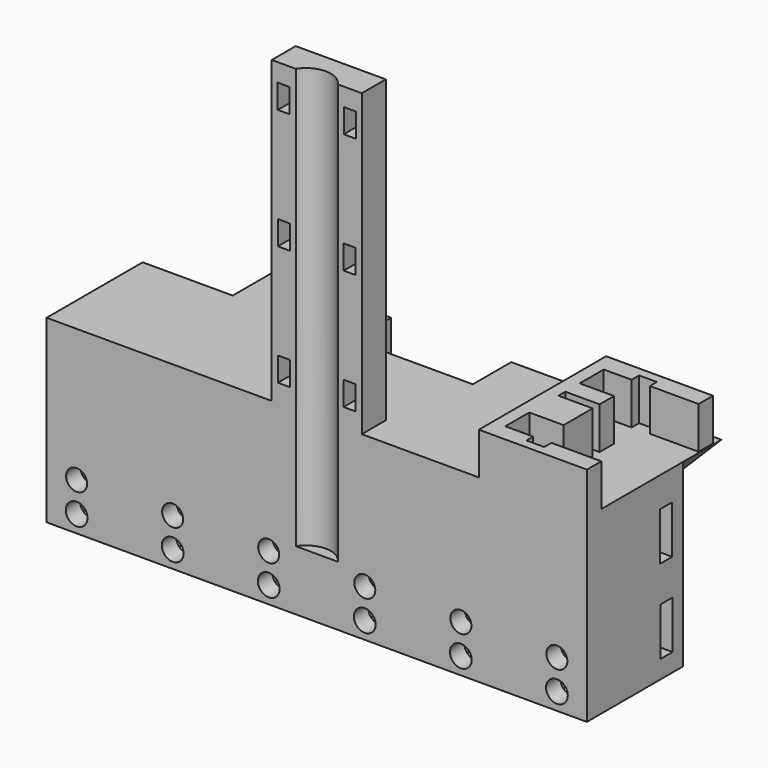
from build123d import *

# Parameters (mm, degrees)
F1_DEPTH  = 30
F3_W      = 2.5
F3_H      = 8
F5_W      = 2.5
F5_H      = 8
F8_R      = 1.811637
F8_R_2    = 1.75
F10_DEPTH = 10
F9_W      = 6.5
F9_H      = 3
F11_DEPTH = 12
F12_R     = 1.5
F13_DEPTH = 20
F14_W     = 15
F14_H     = 5
F15_DEPTH = 50
F17_DEPTH = 70
F18_W     = 2
F18_H     = 4
F19_DEPTH = 28.001
F22_DEPTH = 8
F7_R      = 1.5
F23_DEPTH = 75.001
F24_R     = 3.5
F25_DEPTH = 15
F26_DEPTH = 7


with BuildPart() as f1:
    # F0 (on Top) → F1 (new body)
    with BuildSketch(Plane.XY):
        Polygon((0, 20), (0, 0), (90, 0), (90, 20), (75, 20), (75, 28), (55, 28), (55, 20), (35, 20), (35, 28), (15, 28), (15, 20), align=None)
    extrude(amount=F1_DEPTH)

    # F4: sweep along a path in F2
    with BuildLine(Plane.XY.offset(30)) as f4_path:
        Line((0, 16.5), (35, 16.5))
        ThreePointArc((35, 16.5), (37.780873, 17.683526), (38.855914, 20.508111))
    # F3 (on face) → F4 (sweep, cut)
    with BuildSketch(Plane(origin=(0, 0, 0), x_dir=(0, -1, 0), z_dir=(-1, 0, 0))):
        with Locations((-16.5, 21)):
            Rectangle(F3_W, F3_H)
        with Locations((-16.550689, 7)):
            Rectangle(F3_W, F3_H)
    sweep(path=f4_path.line, mode=Mode.SUBTRACT)

    # F6: sweep along a path in F2
    with BuildLine(Plane.XY.offset(30)) as f6_path:
        Line((90, 16.5), (55, 16.5))
        ThreePointArc((55, 16.5), (51.896558, 17.690089), (50.384562, 20.650078))
    # F5 (on face) → F6 (sweep, cut)
    with BuildSketch(Plane.YZ.offset(90)):
        with Locations((16.5, 21)):
            Rectangle(F5_W, F5_H)
        with Locations((16.589286, 7)):
            Rectangle(F5_W, F5_H)
    sweep(path=f6_path.line, mode=Mode.SUBTRACT)

    # F8 (on face) → F10 (cut)
    with BuildSketch(Plane.XZ):
        with Locations((5, 2.839677)):
            Circle(F8_R)
        with Locations((5, 7.839677)):
            Circle(F8_R_2)
        with Locations((21, 7.839677)):
            Circle(F8_R_2)
        with Locations((21, 2.839677)):
            Circle(F8_R)
        with Locations((37, 7.839677)):
            Circle(F8_R_2)
        with Locations((37, 2.839677)):
            Circle(F8_R)
        with Locations((53, 7.839677)):
            Circle(F8_R_2)
        with Locations((53, 2.839677)):
            Circle(F8_R)
        with Locations((69, 7.839677)):
            Circle(F8_R_2)
        with Locations((69, 2.839677)):
            Circle(F8_R)
        with Locations((85, 7.839677)):
            Circle(F8_R_2)
        with Locations((85, 2.839677)):
            Circle(F8_R)
    extrude(amount=-F10_DEPTH, mode=Mode.SUBTRACT)

    # F9 (on face) → F11 (cut)
    with BuildSketch(Plane(origin=(0, 0, 0), x_dir=(1, 0, 0), z_dir=(0, 0, -1))):
        with Locations((5, -4.5)):
            Rectangle(F9_W, F9_H)
        with Locations((21, -4.5)):
            Rectangle(F9_W, F9_H)
        with Locations((37, -4.5)):
            Rectangle(F9_W, F9_H)
        with Locations((53, -4.5)):
            Rectangle(F9_W, F9_H)
        with Locations((69, -4.5)):
            Rectangle(F9_W, F9_H)
        with Locations((85, -4.5)):
            Rectangle(F9_W, F9_H)
    extrude(amount=-F11_DEPTH, mode=Mode.SUBTRACT)

    # F12 (on face) → F13 (cut)
    with BuildSketch(Plane(origin=(0, 28, 0), x_dir=(-1, 0, 0), z_dir=(0, 1, 0))):
        with Locations((-71.5, 27)):
            Circle(F12_R)
        with Locations((-58.5, 27)):
            Circle(F12_R)
        with Locations((-71.5, 14)):
            Circle(F12_R)
        with Locations((-58.5, 14)):
            Circle(F12_R)
        with Locations((-71.5, 3)):
            Circle(F12_R)
        with Locations((-58.5, 3)):
            Circle(F12_R)
        with Locations((-31.5, 3)):
            Circle(F12_R)
        with Locations((-18.5, 3)):
            Circle(F12_R)
        with Locations((-18.5, 14)):
            Circle(F12_R)
        with Locations((-31.5, 14)):
            Circle(F12_R)
        with Locations((-31.5, 27)):
            Circle(F12_R)
        with Locations((-18.5, 27)):
            Circle(F12_R)
    extrude(amount=-F13_DEPTH, mode=Mode.SUBTRACT)

    # F14 (on face) → F15 (join)
    with BuildSketch(Plane.XY.offset(30)):
        with Locations((45, 2.5)):
            Rectangle(F14_W, F14_H)
    extrude(amount=F15_DEPTH)

    # F16 (on face) → F17 (cut)
    with BuildSketch(Plane.XY.offset(80)):
        with BuildLine():
            Line((41.5, 0), (48.5, 0))
            ThreePointArc((48.5, 0), (45, 1.907092), (41.5, 0))
        make_face()
    extrude(amount=-F17_DEPTH, mode=Mode.SUBTRACT)

    # F18 (on face) → F19 (cut, through all)
    with BuildSketch(Plane.XZ):
        with Locations((39.5, 75)):
            Rectangle(F18_W, F18_H)
        with Locations((39.513543, 55.000005)):
            Rectangle(F18_W, F18_H)
        with Locations((39.527086, 35.000009)):
            Rectangle(F18_W, F18_H)
        with Locations((50.5, 75)):
            Rectangle(F18_W, F18_H)
        with Locations((50.486457, 55.000005)):
            Rectangle(F18_W, F18_H)
        with Locations((50.472914, 35.000009)):
            Rectangle(F18_W, F18_H)
    extrude(amount=-F19_DEPTH, mode=Mode.SUBTRACT)

    # F21 (on face) → F22 (join)
    with BuildSketch(Plane(origin=(0, 20, 0), x_dir=(-1, 0, 0), z_dir=(0, 1, 0))):
        Polygon((-75, 30), (-90, 30), (-75, 15), align=None)
    extrude(amount=F22_DEPTH)

    # F7 (on face) → F23 (cut, through all)
    with BuildSketch(Plane(origin=(15, 0, 0), x_dir=(0, -1, 0), z_dir=(-1, 0, 0))):
        with Locations((-24, 21)):
            Circle(F7_R)
        with Locations((-24, 7)):
            Circle(F7_R)
    extrude(amount=-F23_DEPTH, mode=Mode.SUBTRACT)

    # F24 (on face) → F25 (cut)
    with BuildSketch(Plane.YZ.offset(90)):
        with Locations((24.02541, 20.994468)):
            Circle(F24_R)
    extrude(amount=-F25_DEPTH, mode=Mode.SUBTRACT)

    # F20 (on face) → F26 (join)
    with BuildSketch(Plane.XY.offset(30)):
        Polygon((81.69346, 24.958679), (81.69346, 23.5), (89.806349, 23.5), (89.806349, 26.5), (72, 26.5), (72, 0), (90, 0), (90, 3), (81.69346, 3), (81.69346, 1.496212), (78.730785, 1.496212), (78.730785, 2.889788), (74.089549, 2.889788), (74.089549, 7.889788), (79.806349, 7.889788), (79.806349, 13.933841), (74.089549, 13.933841), (74.089549, 15.378134), (79.806349, 15.378134), (79.806349, 18.389788), (74.089549, 18.389788), (74.089549, 23.389788), (78.730785, 23.389788), (78.730785, 24.958679), align=None)
    extrude(amount=F26_DEPTH)


solid = f1.part
